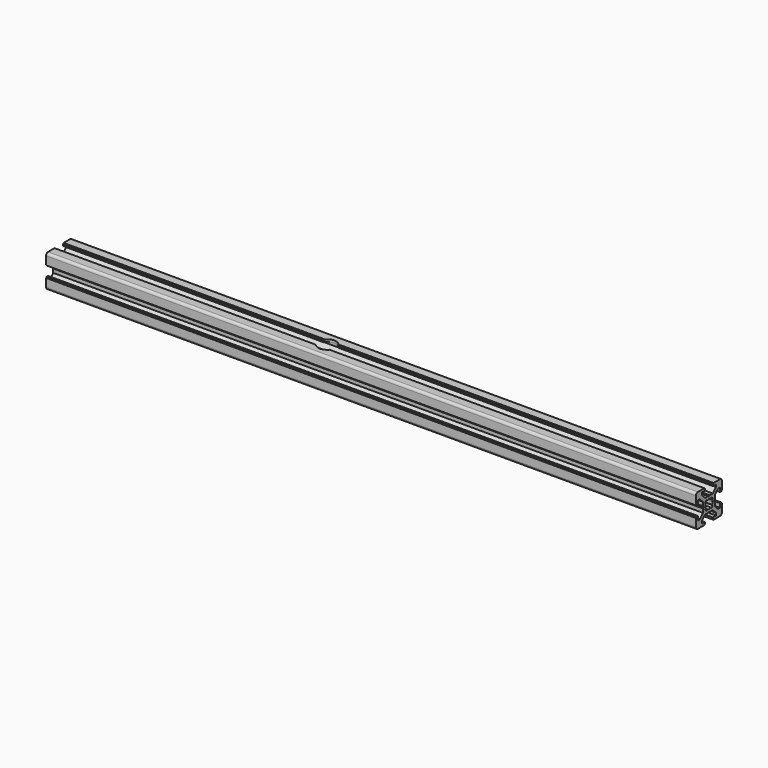
from build123d import *

# Parameters (mm, degrees)
PAD_DEPTH       = 400
SKETCH001_R     = 3.25
POCKET_DEPTH    = 21
SKETCH002_R     = 5.5
POCKET001_DEPTH = 2


with BuildPart() as part:
    # Sketch → Pad (new body)
    with BuildSketch(Plane.YZ):
        with BuildLine():
            Line((0, 4.1), (0.65, 4.5))
            Line((0.65, 4.5), (3, 4.5))
            Line((3, 4.5), (5.5, 7))
            Line((5.5, 7), (5.5, 8.5))
            Line((5.5, 8.5), (3, 8.5))
            Line((3, 8.5), (3, 9.5))
            Line((3, 9.5), (3.5, 9.5))
            Line((3.5, 9.5), (3.5, 10))
            Line((3.5, 10), (8.5, 10))
            ThreePointArc((10, 8.5), (9.56066, 9.56066), (8.5, 10))
            Line((10, 8.5), (10, 3.5))
            Line((10, 3.5), (9.5, 3.5))
            Line((9.5, 3.5), (9.5, 3))
            Line((9.5, 3), (8.5, 3))
            Line((8.5, 3), (8.5, 5.5))
            Line((8.5, 5.5), (7, 5.5))
            Line((7, 5.5), (4.5, 3))
            Line((4.5, 3), (4.5, 0.65))
            Line((4.5, 0.65), (4.1, 0))
            Line((4.5, -0.65), (4.1, 0))
            Line((4.5, -3), (4.5, -0.65))
            Line((7, -5.5), (4.5, -3))
            Line((8.5, -5.5), (7, -5.5))
            Line((8.5, -3), (8.5, -5.5))
            Line((9.5, -3), (8.5, -3))
            Line((9.5, -3.5), (9.5, -3))
            Line((10, -3.5), (9.5, -3.5))
            Line((10, -8.5), (10, -3.5))
            ThreePointArc((8.5, -10), (9.56066, -9.56066), (10, -8.5))
            Line((3.5, -10), (8.5, -10))
            Line((3.5, -9.5), (3.5, -10))
            Line((3, -9.5), (3.5, -9.5))
            Line((3, -8.5), (3, -9.5))
            Line((5.5, -8.5), (3, -8.5))
            Line((5.5, -7), (5.5, -8.5))
            Line((3, -4.5), (5.5, -7))
            Line((0.65, -4.5), (3, -4.5))
            Line((0, -4.1), (0.65, -4.5))
            Line((0, -4.1), (-0.65, -4.5))
            Line((-0.65, -4.5), (-3, -4.5))
            Line((-3, -4.5), (-5.5, -7))
            Line((-5.5, -7), (-5.5, -8.5))
            Line((-5.5, -8.5), (-3, -8.5))
            Line((-3, -8.5), (-3, -9.5))
            Line((-3, -9.5), (-3.5, -9.5))
            Line((-3.5, -9.5), (-3.5, -10))
            Line((-3.5, -10), (-8.5, -10))
            ThreePointArc((-10, -8.5), (-9.56066, -9.56066), (-8.5, -10))
            Line((-10, -8.5), (-10, -3.5))
            Line((-10, -3.5), (-9.5, -3.5))
            Line((-9.5, -3.5), (-9.5, -3))
            Line((-9.5, -3), (-8.5, -3))
            Line((-8.5, -3), (-8.5, -5.5))
            Line((-8.5, -5.5), (-7, -5.5))
            Line((-7, -5.5), (-4.5, -3))
            Line((-4.5, -3), (-4.5, -0.65))
            Line((-4.5, -0.65), (-4.1, 0))
            Line((-4.5, 0.65), (-4.1, 0))
            Line((-4.5, 3), (-4.5, 0.65))
            Line((-7, 5.5), (-4.5, 3))
            Line((-8.5, 5.5), (-7, 5.5))
            Line((-8.5, 3), (-8.5, 5.5))
            Line((-9.5, 3), (-8.5, 3))
            Line((-9.5, 3.5), (-9.5, 3))
            Line((-10, 3.5), (-9.5, 3.5))
            Line((-10, 8.5), (-10, 3.5))
            ThreePointArc((-8.5, 10), (-9.56066, 9.56066), (-10, 8.5))
            Line((-3.5, 10), (-8.5, 10))
            Line((-3.5, 9.5), (-3.5, 10))
            Line((-3, 9.5), (-3.5, 9.5))
            Line((-3, 8.5), (-3, 9.5))
            Line((-5.5, 8.5), (-3, 8.5))
            Line((-5.5, 7), (-5.5, 8.5))
            Line((-3, 4.5), (-5.5, 7))
            Line((-0.65, 4.5), (-3, 4.5))
            Line((0, 4.1), (-0.65, 4.5))
        make_face()
        with BuildLine():
            Line((1.340499, 2.401159), (1.923239, 2.983899))
            Line((1.923239, 2.983899), (2.983899, 1.923239))
            Line((2.983899, 1.923239), (2.401159, 1.340499))
            ThreePointArc((2.75, 0), (2.661361, 0.692573), (2.401159, 1.340499))
            ThreePointArc((2.401164, -1.34049), (2.661362, -0.692568), (2.75, 0))
            Line((2.983904, -1.92323), (2.401164, -1.34049))
            Line((1.923247, -2.983894), (2.983904, -1.92323))
            Line((1.340507, -2.401154), (1.923247, -2.983894))
            ThreePointArc((0, -2.75), (0.692577, -2.66136), (1.340507, -2.401154))
            ThreePointArc((-1.340507, -2.401154), (-0.692577, -2.66136), (0, -2.75))
            Line((-1.340507, -2.401154), (-1.923247, -2.983894))
            Line((-1.923247, -2.983894), (-2.983904, -1.92323))
            Line((-2.983904, -1.92323), (-2.401164, -1.34049))
            ThreePointArc((-2.75, 0), (-2.661362, -0.692568), (-2.401164, -1.34049))
            ThreePointArc((-2.401159, 1.340499), (-2.661361, 0.692572), (-2.75, 0))
            Line((-2.983899, 1.923239), (-2.401159, 1.340499))
            Line((-1.923239, 2.983899), (-2.983899, 1.923239))
            Line((-1.340499, 2.401159), (-1.923239, 2.983899))
            ThreePointArc((0, 2.75), (-0.692573, 2.661361), (-1.340499, 2.401159))
            ThreePointArc((1.340499, 2.401159), (0.692573, 2.661361), (0, 2.75))
        make_face(mode=Mode.SUBTRACT)
    extrude(amount=PAD_DEPTH)

    # Sketch001 → Pocket (cut)
    with BuildSketch(Plane.XY.offset(10)):
        with Locations((165, 0)):
            Circle(SKETCH001_R)
    extrude(amount=-POCKET_DEPTH, mode=Mode.SUBTRACT)

    # Sketch002 → Pocket001 (cut)
    with BuildSketch(Plane.XY.offset(10)):
        with Locations((165, 0)):
            Circle(SKETCH002_R)
    extrude(amount=-POCKET001_DEPTH, mode=Mode.SUBTRACT)


solid = part.part
